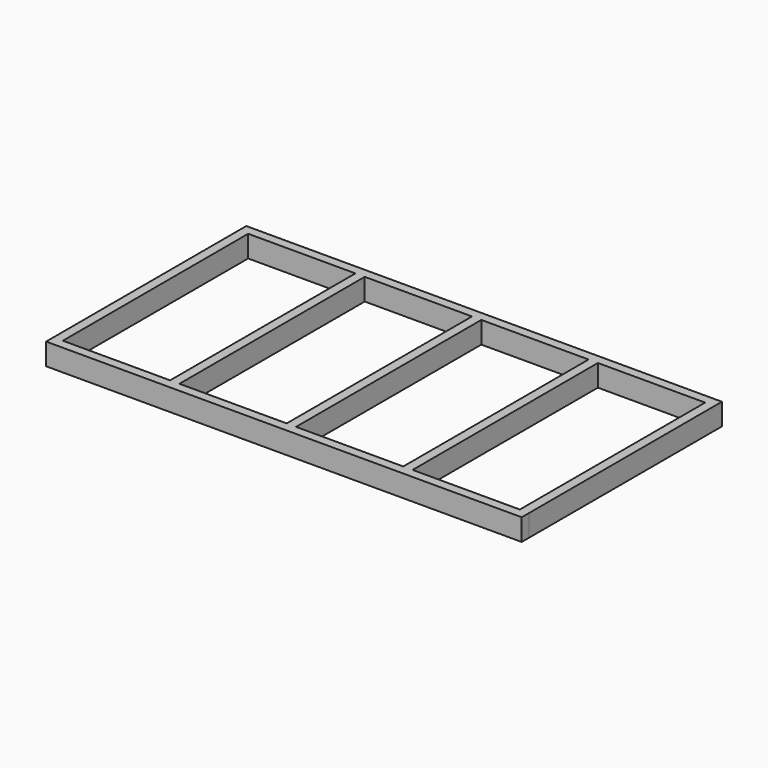
from build123d import *

# Parameters (mm, degrees)
F0_W     = 38.1
F0_H     = 946.15
F1_DEPTH = 88.9


with BuildPart() as f1:
    # F0 (on Top) → F1 (new body)
    with BuildSketch(Plane.XY):
        Polygon((962.771923, 6.890765), (-980.328077, 6.890765), (-980.328077, -31.209235), (-942.228077, -31.209235), (-504.078077, -31.209235), (-465.978077, -31.209235), (-27.828077, -31.209235), (10.271923, -31.209235), (448.421923, -31.209235), (486.521923, -31.209235), (924.671923, -31.209235), (962.771923, -31.209235), align=None)
        with Locations((-961.278077, -504.284235)):
            Rectangle(F0_W, F0_H)
        Polygon((962.771923, -977.359235), (962.771923, -31.209235), (924.671923, -31.209235), (924.671923, -977.359235), (962.746943, -977.359235), align=None)
        Polygon((-942.228077, -977.359235), (-980.328077, -977.359235), (-980.353057, -977.359235), (-980.353057, -1015.459235), (962.746943, -1015.459235), (962.746943, -977.359235), (924.671923, -977.359235), (486.521923, -977.359235), (448.421923, -977.359235), (10.271923, -977.359235), (-27.828077, -977.359235), (-465.978077, -977.359235), (-504.078077, -977.359235), align=None)
        with Locations((-485.028077, -504.284235)):
            Rectangle(F0_W, F0_H)
        with Locations((-8.778077, -504.284235)):
            Rectangle(F0_W, F0_H)
        with Locations((467.471923, -504.284235)):
            Rectangle(F0_W, F0_H)
    extrude(amount=F1_DEPTH)


solid = f1.part
